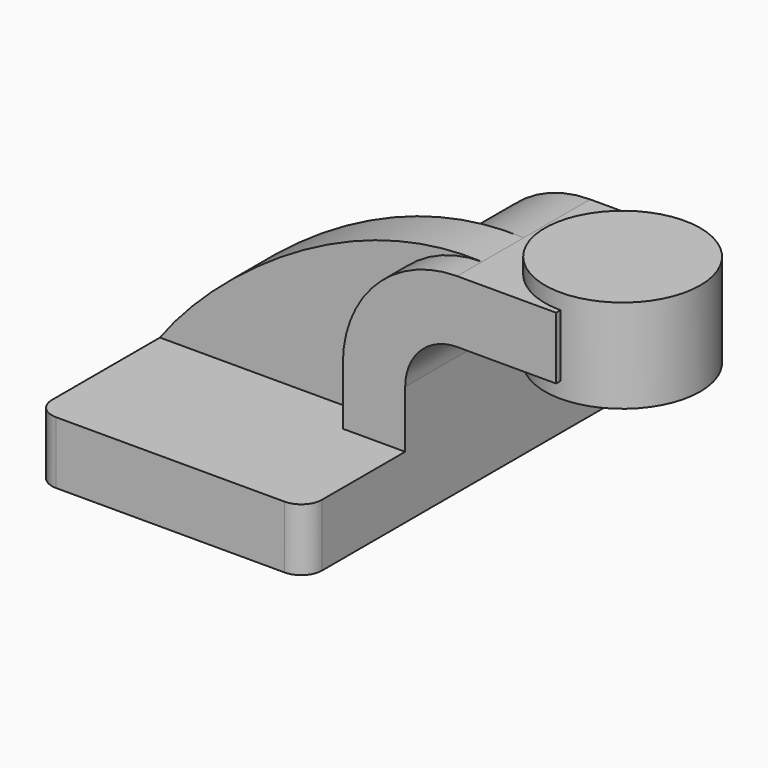
from build123d import *

# Parameters (mm, degrees)
F1_DEPTH = 63.5
F0_W     = 27.0654788882
F0_H     = 19.05
F2_DEPTH = 25.4
F3_DEPTH = 15.875
F5_R     = 6.35


with BuildPart() as f1:
    # F0 (on Front) → F1 (new body, symmetric)
    with BuildSketch(Plane.XZ):
        Polygon((-41.275, 9.525), (-41.275, -9.525), (41.275, -9.525), (41.275, 9.525), (22.225, 9.525), align=None)
    extrude(amount=F1_DEPTH, both=True)

    # F0 (on Front) → F2 (join, symmetric)
    with BuildSketch(Plane.XZ):
        with BuildLine():
            Line((22.225, 9.525), (41.275, 9.525))
            Line((41.275, 9.525), (41.275, 27.0002))
            ThreePointArc((41.275, 27.0002), (45.9246798487, 38.2255201513), (57.15, 42.8752))
            Line((57.15, 42.8752), (60.325, 42.8752))
            Line((60.325, 42.8752), (60.325, 61.9252))
            Line((60.325, 61.9252), (57.15, 61.9252))
            ThreePointArc((57.15, 61.9252), (32.4542956671, 51.6959043329), (22.225, 27.0002))
            Line((22.225, 27.0002), (22.225, 9.525))
        make_face()
        with Locations((73.8577394441, 52.4002)):
            Rectangle(F0_W, F0_H)
    extrude(amount=F2_DEPTH, both=True)

    # F0 (on Front) → F3 (join)
    with BuildSketch(Plane.XZ):
        with BuildLine():
            add(Edge.make_bspline(
                [(-41.275, 9.525), (-26.4197979122, 30.2293878049), (13.8705614954, 63.8618990779), (57.15, 61.9252)],
                knots=[0, 0, 0, 0, 111.5045361635, 111.5045361635, 111.5045361635, 111.5045361635], degree=3))
            Line((-41.275, 9.525), (22.225, 9.525))
            Line((22.225, 9.525), (22.225, 27.0002))
            ThreePointArc((22.225, 27.0002), (32.4542956671, 51.6959043329), (57.15, 61.9252))
        make_face()
    extrude(amount=F3_DEPTH)

    # F5
    f5_edges = [f1.edges().sort_by_distance(p)[0] for p in [
        (-41.275, -63.5, 0),
        (41.275, 63.5, 0),
        (41.275, -63.5, 0),
        (-41.275, 63.5, 0),
    ]]
    fillet(f5_edges, radius=F5_R)


with BuildPart() as f4:
    # F0 (on Front) → F4 (revolve)
    with BuildSketch(Plane.XZ):
        Polygon((87.3904788882, 66.675), (87.3904788882, 61.9252), (87.3904788882, 42.8752), (87.3904788882, 38.1), (111.125, 38.1), (111.125, 66.675), align=None)
    revolve(axis=Axis((87.3904788882, 0, 52.3875), (0, 0, -1)))


solid = Compound([f1.part, f4.part])
